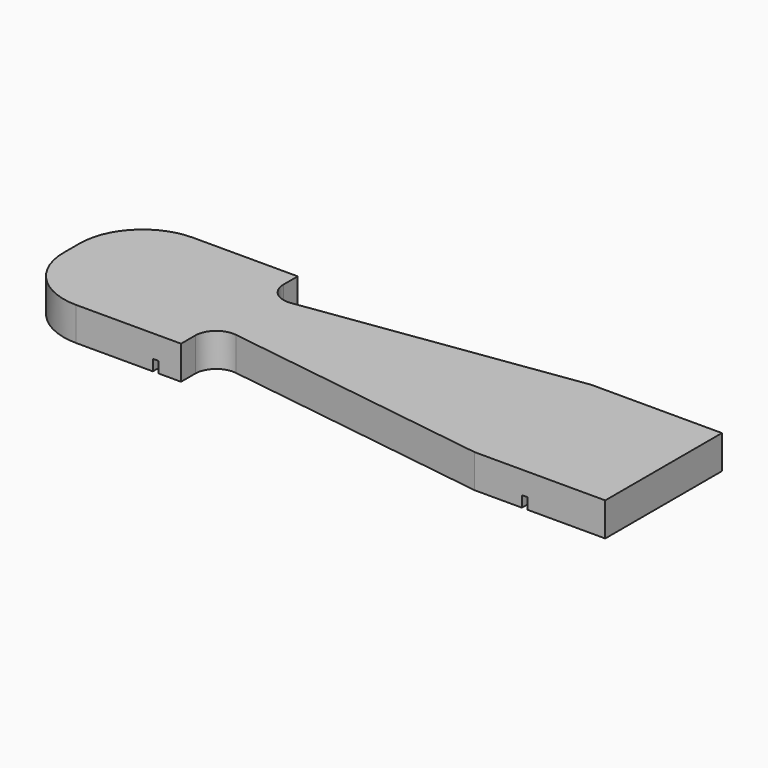
from build123d import *

# Parameters (mm, degrees)
F0_W      = 179.2732
F0_H      = 31.5976
F1_DEPTH  = 22.0853
F2_W      = 1.7526
F2_H      = 3.3528
F3_DEPTH  = 44.1716
F4_W      = 179.2732
F4_H      = 21.4376
F5_DEPTH  = 44.1716
F7_DEPTH  = 10.161
F9_DEPTH  = 6.35
F11_DEPTH = 10.161


with BuildPart() as f1:
    # F0 (on Front) → F1 (new body, symmetric)
    with BuildSketch(Plane.XZ):
        with Locations((89.6366, 15.7988)):
            Rectangle(F0_W, F0_H)
    extrude(amount=F1_DEPTH, both=True)

    # F2 (on face) → F3 (cut, through all)
    with BuildSketch(Plane.XZ.offset(22.0853)):
        with Locations((43.1419, 1.6764)):
            Rectangle(F2_W, F2_H)
        with Locations((154.9019, 1.6764)):
            Rectangle(F2_W, F2_H)
    extrude(amount=-F3_DEPTH, mode=Mode.SUBTRACT)

    # F4 (on face) → F5 (cut, through all)
    with BuildSketch(Plane.XZ.offset(22.0853)):
        with Locations((89.6366, 20.8788)):
            Rectangle(F4_W, F4_H)
    extrude(amount=-F5_DEPTH, mode=Mode.SUBTRACT)

    # F6 (on face) → F7 (cut, through all)
    with BuildSketch(Plane.XY.offset(10.16)):
        with BuildLine():
            Line((58.048026, 10.420732), (139.7, 22.0853))
            Line((139.7, 22.0853), (50.8, 22.0853))
            Line((50.8, 22.0853), (50.8, 16.706912))
            ThreePointArc((50.8, 16.706912), (52.989469, 11.909779), (58.048026, 10.420732))
        make_face()
        with BuildLine():
            Line((139.7, -22.0853), (58.048026, -10.420732))
            ThreePointArc((58.048026, -10.420732), (52.989469, -11.909779), (50.8, -16.706912))
            Line((50.8, -16.706912), (50.8, -22.0853))
            Line((50.8, -22.0853), (139.7, -22.0853))
        make_face()
    extrude(amount=-F7_DEPTH, mode=Mode.SUBTRACT)

    # F8 (on face) → F9 (cut)
    with BuildSketch(Plane(origin=(0, 0, 0), x_dir=(1, 0, 0), z_dir=(0, 0, -1))):
        with BuildLine():
            Line((172.9232, 18.9103), (162.1282, 18.9103))
            ThreePointArc((162.1282, 18.9103), (159.883136, 17.980364), (158.9532, 15.7353))
            Line((158.9532, 15.7353), (158.9532, -15.7353))
            ThreePointArc((158.9532, -15.7353), (159.883136, -17.980364), (162.1282, -18.9103))
            Line((162.1282, -18.9103), (172.9232, -18.9103))
            ThreePointArc((172.9232, -18.9103), (175.168264, -17.980364), (176.0982, -15.7353))
            Line((176.0982, -15.7353), (176.0982, 15.7353))
            ThreePointArc((176.0982, 15.7353), (175.168264, 17.980364), (172.9232, 18.9103))
        make_face()
        with BuildLine():
            Line((147.5232, 18.9103), (136.7282, 18.9103))
            ThreePointArc((136.7282, 18.9103), (134.483136, 17.980364), (133.5532, 15.7353))
            Line((133.5532, 15.7353), (133.5532, -15.7353))
            ThreePointArc((133.5532, -15.7353), (134.483136, -17.980364), (136.7282, -18.9103))
            Line((136.7282, -18.9103), (147.5232, -18.9103))
            ThreePointArc((147.5232, -18.9103), (149.768264, -17.980364), (150.6982, -15.7353))
            Line((150.6982, -15.7353), (150.6982, 15.7353))
            ThreePointArc((150.6982, 15.7353), (149.768264, 17.980364), (147.5232, 18.9103))
        make_face()
    extrude(amount=-F9_DEPTH, mode=Mode.SUBTRACT)

    # F10 (on face) → F11 (cut, through all)
    with BuildSketch(Plane.XY.offset(10.16)):
        with BuildLine():
            ThreePointArc((0, 3.0353), (5.579616, 16.505684), (19.05, 22.0853))
            Line((19.05, 22.0853), (0, 22.0853))
            Line((0, 22.0853), (0, 3.0353))
        make_face()
        with BuildLine():
            ThreePointArc((19.05, -22.0853), (5.579616, -16.505684), (0, -3.0353))
            Line((0, -3.0353), (0, -22.0853))
            Line((0, -22.0853), (19.05, -22.0853))
        make_face()
    extrude(amount=-F11_DEPTH, mode=Mode.SUBTRACT)


solid = f1.part
